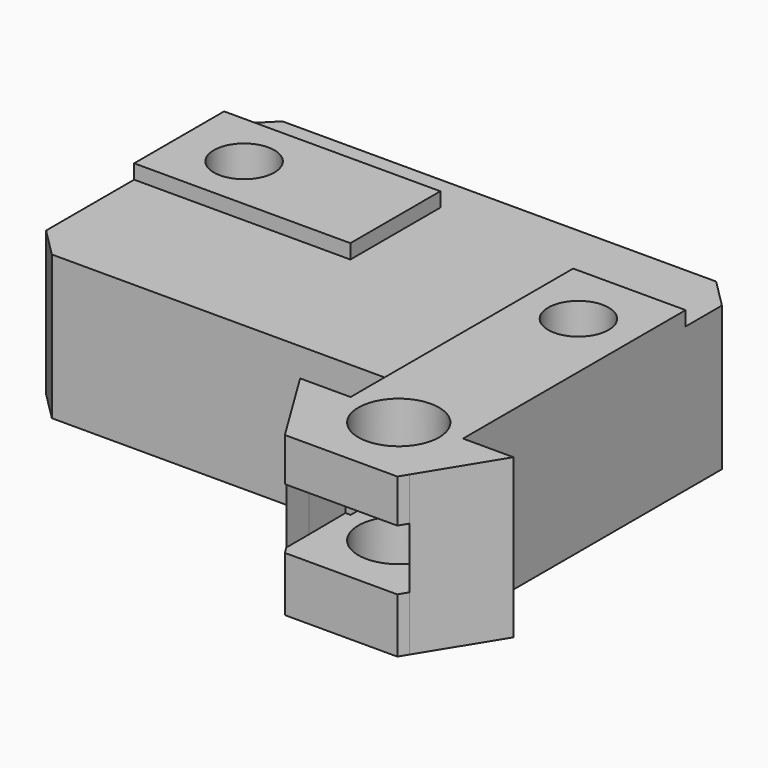
from build123d import *

# Parameters (mm, degrees)
F0_W     = 15
F0_H     = 7.8
F0_R     = 2.1
F0_W_2   = 7.8
F0_H_2   = 14.85
F0_R_2   = 2.8
F1_DEPTH = 10
F2_START = 9
F2_DEPTH = 2
F3_START = 3.8
F3_DEPTH = 4.2
F4_SIZE  = 2


with BuildPart() as f1:
    # F0 (on Top) → F1 (new body)
    with BuildSketch(Plane.XY):
        Polygon((7.4437668294, -7.943718292), (7.4437668294, 6.906281708), (15.2437668294, 6.906281708), (15.2437668294, 12.056281708), (-18.8392331706, 12.056281708), (-18.8392331706, 9.493718292), (-3.8392331706, 9.493718292), (-3.8392331706, 1.693718292), (-18.8392331706, 1.693718292), (-18.8392331706, -7.943718292), align=None)
        Polygon((15.2437668294, -7.943718292), (7.4437668294, -7.943718292), (7.4437668294, -10.4582807188), (11.3013526795, -8.186424295), (15.2437668294, -10.4173709361), align=None)
        Polygon((7.115132639, -15.5840970217), (7.0875579305, -12.393718292), (3.9437668294, -12.393718292), (7.115132639, -17.5585140392), align=None)
        Polygon((7.4437668294, -18.093718292), (7.4437668294, -15.7700656479), (7.115132639, -15.5840970217), (7.115132639, -17.5585140392), align=None)
        Polygon((18.7437668294, -12.393718292), (15.5878754119, -12.393718292), (15.6148151695, -15.5106335593), (15.6148151695, -17.4894395666), align=None)
        Polygon((15.6148151695, -15.5106335593), (15.2437668294, -15.7291558652), (15.2437668294, -18.093718292), (15.6148151695, -17.4894395666), align=None)
        with Locations((-11.3392331706, 5.593718292)):
            Rectangle(F0_W, F0_H)
        with Locations((-14.3314907327, 5.593718292)):
            Circle(F0_R, mode=Mode.SUBTRACT)
        with Locations((11.3437668294, -0.518718292)):
            Rectangle(F0_W_2, F0_H_2)
        with Locations((11.3437668294, 2.4854193907)):
            Circle(F0_R, mode=Mode.SUBTRACT)
        Polygon((11.3861809792, -18.001012289), (7.4437668294, -15.7700656479), (7.4437668294, -18.093718292), (15.2437668294, -18.093718292), (15.2437668294, -15.7291558652), align=None)
        Polygon((7.4437668294, -15.7700656479), (7.4437668294, -12.393718292), (7.0875579305, -12.393718292), (7.115132639, -15.5840970217), align=None)
        Polygon((15.5878754119, -12.393718292), (15.2437668294, -12.393718292), (15.2437668294, -15.7291558652), (15.6148151695, -15.5106335593), align=None)
        Polygon((11.3013526795, -8.186424295), (7.4437668294, -10.4582807188), (7.4437668294, -12.393718292), (7.4437668294, -15.7700656479), (11.3861809792, -18.001012289), (15.2437668294, -15.7291558652), (15.2437668294, -12.393718292), (15.2437668294, -10.4173709361), align=None)
        with Locations((11.3437668294, -13.093718292)):
            Circle(F0_R_2, mode=Mode.SUBTRACT)
    extrude(amount=F1_DEPTH)

    # F0 (on Top) → F2 (join)
    with BuildSketch(Plane.XY.offset(F2_START)):
        with Locations((-11.3392331706, 5.593718292)):
            Rectangle(F0_W, F0_H)
        with Locations((-14.3314907327, 5.593718292)):
            Circle(F0_R, mode=Mode.SUBTRACT)
        with Locations((11.3437668294, -0.518718292)):
            Rectangle(F0_W_2, F0_H_2)
        with Locations((11.3437668294, 2.4854193907)):
            Circle(F0_R, mode=Mode.SUBTRACT)
        Polygon((7.4437668294, -15.7700656479), (7.4437668294, -12.393718292), (7.0875579305, -12.393718292), (7.115132639, -15.5840970217), align=None)
        Polygon((7.4437668294, -18.093718292), (7.4437668294, -15.7700656479), (7.115132639, -15.5840970217), (7.115132639, -17.5585140392), align=None)
        Polygon((11.3861809792, -18.001012289), (7.4437668294, -15.7700656479), (7.4437668294, -18.093718292), (15.2437668294, -18.093718292), (15.2437668294, -15.7291558652), align=None)
        Polygon((18.7437668294, -12.393718292), (15.5878754119, -12.393718292), (15.6148151695, -15.5106335593), (15.6148151695, -17.4894395666), align=None)
        Polygon((15.6148151695, -15.5106335593), (15.2437668294, -15.7291558652), (15.2437668294, -18.093718292), (15.6148151695, -17.4894395666), align=None)
        Polygon((7.115132639, -15.5840970217), (7.0875579305, -12.393718292), (3.9437668294, -12.393718292), (7.115132639, -17.5585140392), align=None)
        Polygon((11.3013526795, -8.186424295), (7.4437668294, -10.4582807188), (7.4437668294, -12.393718292), (7.4437668294, -15.7700656479), (11.3861809792, -18.001012289), (15.2437668294, -15.7291558652), (15.2437668294, -12.393718292), (15.2437668294, -10.4173709361), align=None)
        with Locations((11.3437668294, -13.093718292)):
            Circle(F0_R_2, mode=Mode.SUBTRACT)
        Polygon((15.2437668294, -7.943718292), (7.4437668294, -7.943718292), (7.4437668294, -10.4582807188), (11.3013526795, -8.186424295), (15.2437668294, -10.4173709361), align=None)
        Polygon((15.5878754119, -12.393718292), (15.2437668294, -12.393718292), (15.2437668294, -15.7291558652), (15.6148151695, -15.5106335593), align=None)
    extrude(amount=F2_DEPTH)

    # F0 (on Top) → F3 (cut)
    with BuildSketch(Plane.XY.offset(F3_START)):
        Polygon((15.5724010197, -10.6033395623), (15.2437668294, -10.4173709361), (15.2437668294, -12.393718292), (15.5878754119, -12.393718292), align=None)
        Polygon((11.3013526795, -8.186424295), (7.4437668294, -10.4582807188), (7.4437668294, -12.393718292), (7.4437668294, -15.7700656479), (11.3861809792, -18.001012289), (15.2437668294, -15.7291558652), (15.2437668294, -12.393718292), (15.2437668294, -10.4173709361), align=None)
        with Locations((11.3437668294, -13.093718292)):
            Circle(F0_R_2, mode=Mode.SUBTRACT)
        Polygon((15.5878754119, -12.393718292), (15.2437668294, -12.393718292), (15.2437668294, -15.7291558652), (15.6148151695, -15.5106335593), align=None)
        Polygon((7.4437668294, -15.7700656479), (7.4437668294, -12.393718292), (7.0875579305, -12.393718292), (7.115132639, -15.5840970217), align=None)
        Polygon((7.4437668294, -12.393718292), (7.4437668294, -10.4582807188), (7.0727184892, -10.6768030247), (7.0875579305, -12.393718292), align=None)
        Polygon((11.3861809792, -18.001012289), (7.4437668294, -15.7700656479), (7.4437668294, -18.093718292), (15.2437668294, -18.093718292), (15.2437668294, -15.7291558652), align=None)
        Polygon((15.6148151695, -15.5106335593), (15.2437668294, -15.7291558652), (15.2437668294, -18.093718292), (15.6148151695, -17.4894395666), align=None)
        Polygon((7.4437668294, -18.093718292), (7.4437668294, -15.7700656479), (7.115132639, -15.5840970217), (7.115132639, -17.5585140392), align=None)
    extrude(amount=F3_DEPTH, mode=Mode.SUBTRACT)

    # F4
    f4_edges = [f1.edges().sort_by_distance(p)[0] for p in [
        (15.243767, 12.056282, 5),
        (-18.839233, -7.943718, 5),
        (-18.839233, 12.056282, 5),
    ]]
    chamfer(f4_edges, length=F4_SIZE)


solid = f1.part
